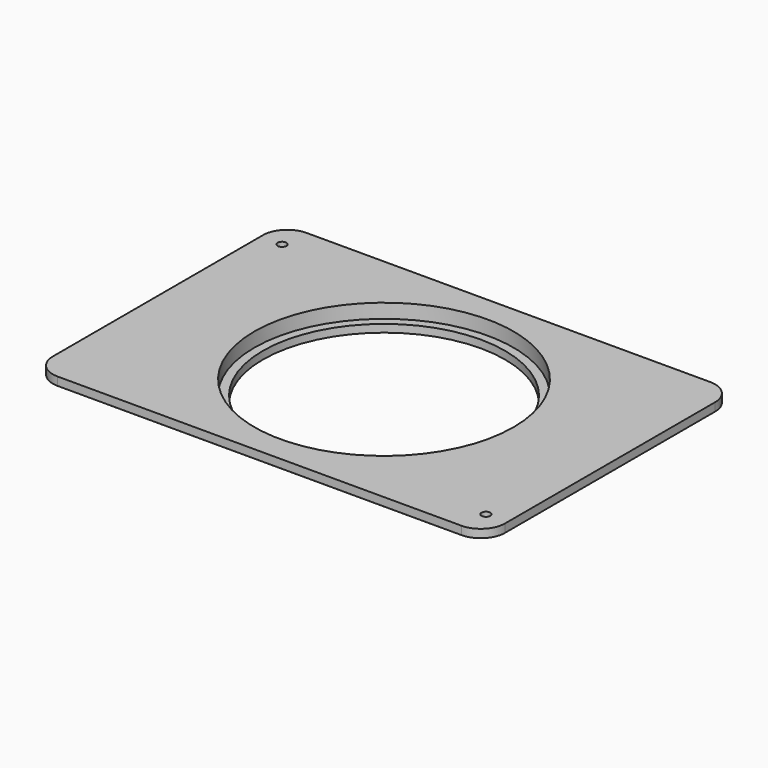
from build123d import *

# Parameters (mm, degrees)
F0_R     = 1.55
F1_DEPTH = 2.91
F3_DEPTH = 4.8
F4_R     = 42.5
F5_DEPTH = 25
F4_R_2   = 45.5
F6_DEPTH = 5


with BuildPart() as f1:
    # F0 (on Top) → F1 (new body)
    with BuildSketch(Plane.XY):
        with BuildLine():
            Line((-70.875, -54.61), (70.875, -54.61))
            ThreePointArc((70.875, -54.61), (76.885408, -52.120408), (79.375, -46.11))
            Line((79.375, -46.11), (79.375, 46.11))
            ThreePointArc((79.375, 46.11), (76.885408, 52.120408), (70.875, 54.61))
            Line((70.875, 54.61), (-70.875, 54.61))
            ThreePointArc((-70.875, 54.61), (-76.885408, 52.120408), (-79.375, 46.11))
            Line((-79.375, 46.11), (-79.375, -46.11))
            ThreePointArc((-79.375, -46.11), (-76.885408, -52.120408), (-70.875, -54.61))
        make_face()
        with Locations((71.875, -45.11)):
            Circle(F0_R, mode=Mode.SUBTRACT)
        with Locations((-71.875, 45.11)):
            Circle(F0_R, mode=Mode.SUBTRACT)
    extrude(amount=F1_DEPTH)

    # F2 (on Top) → F3 (join)
    with BuildSketch(Plane.XY):
        with BuildLine():
            Line((-59.5, -47.425), (59.5, -47.425))
            ThreePointArc((59.5, -47.425), (65.156854, -45.081854), (67.5, -39.425))
            Line((67.5, -39.425), (67.5, 39.425))
            ThreePointArc((67.5, 39.425), (65.156854, 45.081854), (59.5, 47.425))
            Line((59.5, 47.425), (-59.5, 47.425))
            ThreePointArc((-59.5, 47.425), (-65.156854, 45.081854), (-67.5, 39.425))
            Line((-67.5, 39.425), (-67.5, -39.425))
            ThreePointArc((-67.5, -39.425), (-65.156854, -45.081854), (-59.5, -47.425))
        make_face()
    extrude(amount=-F3_DEPTH)

    # F4 (on face) → F5 (cut)
    with BuildSketch(Plane.XY.offset(2.91)):
        Circle(F4_R)
    extrude(amount=-F5_DEPTH, mode=Mode.SUBTRACT)

    # F4 (on face) → F6 (cut)
    with BuildSketch(Plane.XY.offset(2.91)):
        Circle(F4_R_2)
        Circle(F4_R, mode=Mode.SUBTRACT)
    extrude(amount=-F6_DEPTH, mode=Mode.SUBTRACT)


solid = f1.part
